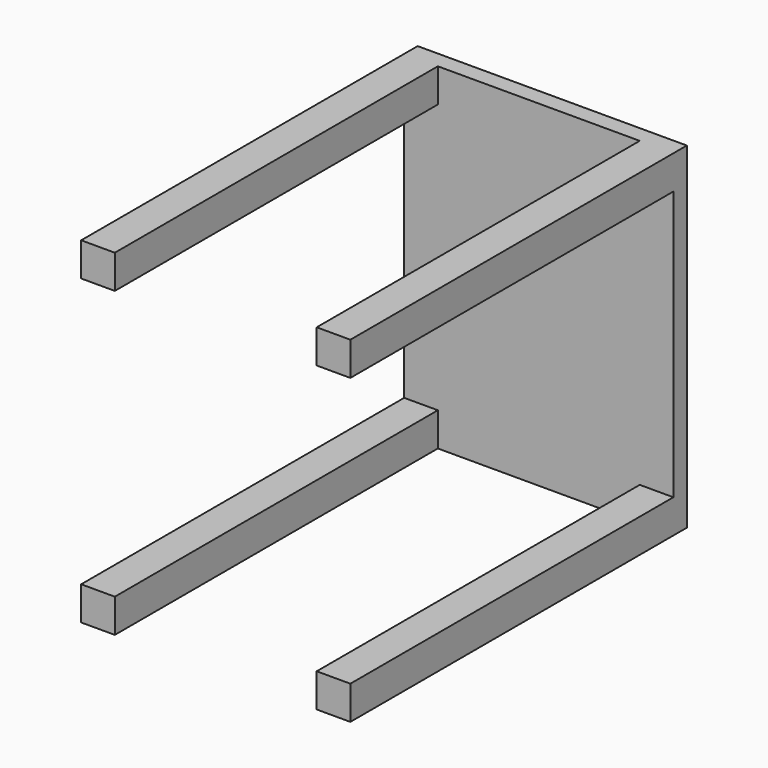
from build123d import *

# Parameters (mm, degrees)
F0_W     = 101.6
F0_H     = 127
F1_DEPTH = 6.35
F2_W     = 12.7
F2_H     = 12.7
F3_DEPTH = 152.4


with BuildPart() as f1:
    # F0 (on Front) → F1 (new body)
    with BuildSketch(Plane.XZ):
        Rectangle(F0_W, F0_H)
    extrude(amount=F1_DEPTH)

    # F2 (on face) → F3 (join)
    with BuildSketch(Plane.XZ.offset(6.35)):
        with Locations((-44.45, 57.15)):
            Rectangle(F2_W, F2_H)
        with Locations((-44.45, -57.15)):
            Rectangle(F2_W, F2_H)
        with Locations((44.45, -57.15)):
            Rectangle(F2_W, F2_H)
        with Locations((44.45, 57.15)):
            Rectangle(F2_W, F2_H)
    extrude(amount=F3_DEPTH)


solid = f1.part
